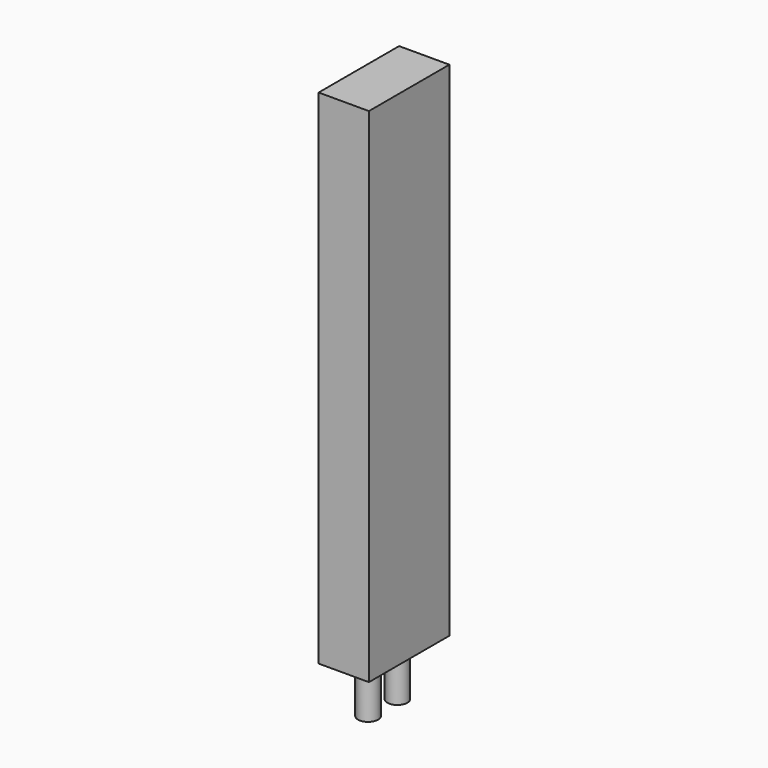
from build123d import *

# Parameters (mm, degrees)
F0_W     = 12.7
F0_H     = 25.4
F1_DEPTH = 127
F2_R     = 2.54
F3_DEPTH = 12.7


with BuildPart() as f1:
    # F0 (on Top) → F1 (new body)
    with BuildSketch(Plane.XY):
        Rectangle(F0_W, F0_H)
    extrude(amount=F1_DEPTH)

    # F2 (on face) → F3 (join)
    with BuildSketch(Plane(origin=(0, 0, 0), x_dir=(1, 0, 0), z_dir=(0, 0, -1))):
        with Locations((0, 5.029227)):
            Circle(F2_R)
        with Locations((0, -4.2243)):
            Circle(F2_R)
    extrude(amount=F3_DEPTH)


solid = f1.part
